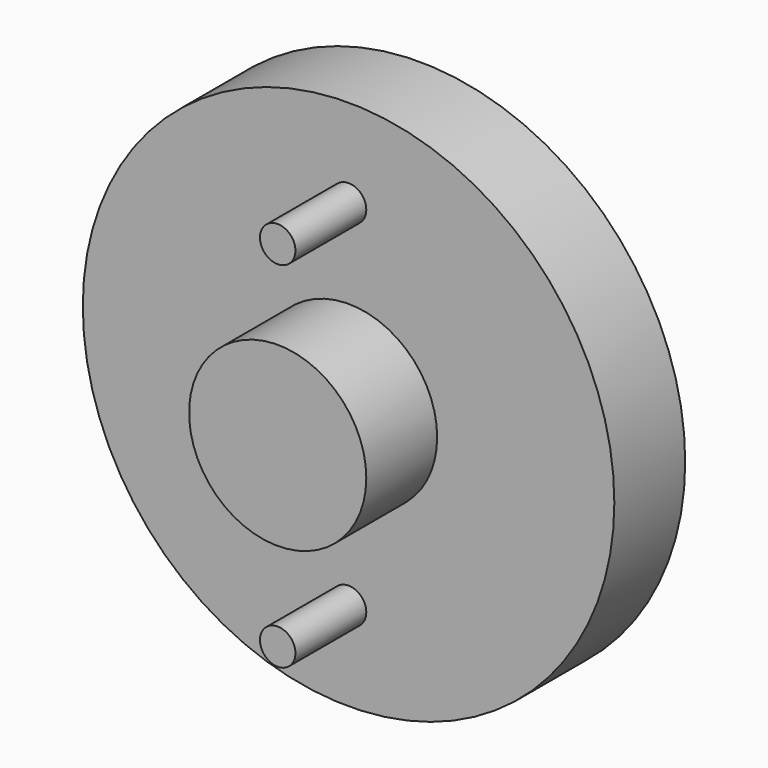
from build123d import *

# Parameters (mm, degrees)
F0_R     = 5
F0_R_2   = 25
F1_DEPTH = 25
F0_R_3   = 75
F2_DEPTH = 25


with BuildPart() as f1:
    # F0 (on Front) → F1 (new body)
    with BuildSketch(Plane.XZ):
        with Locations((0, 50)):
            Circle(F0_R)
        Circle(F0_R_2)
        with Locations((0, -50)):
            Circle(F0_R)
    extrude(amount=F1_DEPTH)


with BuildPart() as f2:
    # F0 (on Front) → F2 (new body)
    with BuildSketch(Plane.XZ):
        Circle(F0_R_3)
        with Locations((0, -50)):
            Circle(F0_R, mode=Mode.SUBTRACT)
        Circle(F0_R_2, mode=Mode.SUBTRACT)
        with Locations((0, 50)):
            Circle(F0_R, mode=Mode.SUBTRACT)
    extrude(amount=-F2_DEPTH)


solid = Compound([f1.part, f2.part])
